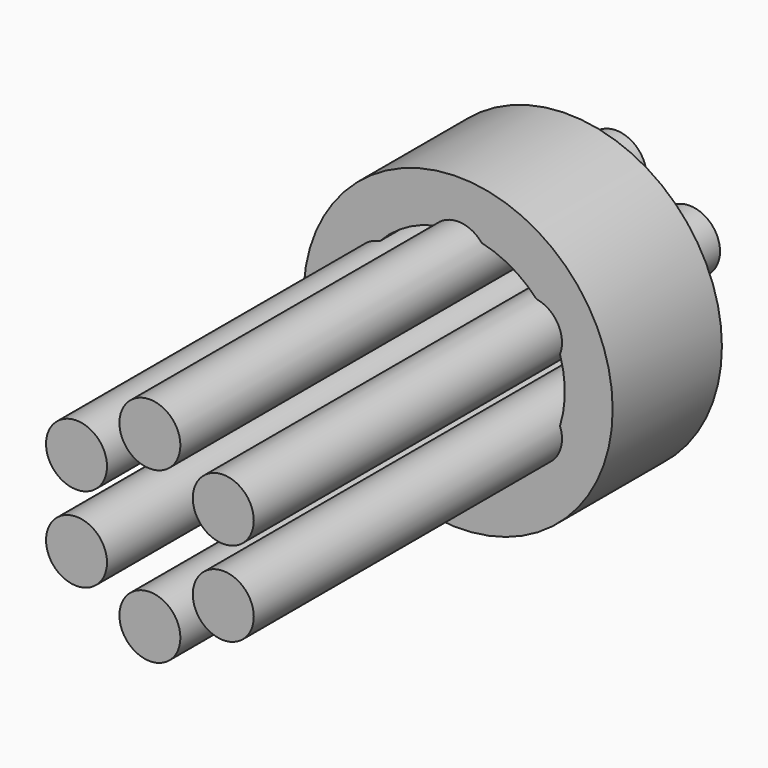
from build123d import *

# Parameters (mm, degrees)
F0_R     = 2.5
F1_DEPTH = 47.8
F3_R     = 12.675
F3_R_2   = 8.75
F4_DEPTH = 11.2


with BuildPart() as f1:
    # F0 (on Front) → F1 (new body)
    with BuildSketch(Plane.XZ):
        with Locations((0, 6.95)):
            Circle(F0_R)
        with Locations((-6.018877, 3.475)):
            Circle(F0_R)
        with Locations((-6.018877, -3.475)):
            Circle(F0_R)
        with Locations((0, -6.95)):
            Circle(F0_R)
        with Locations((6.018877, -3.475)):
            Circle(F0_R)
        with Locations((6.018877, 3.475)):
            Circle(F0_R)
    extrude(amount=F1_DEPTH)

    # F3 (on offset) → F4 (join)
    with BuildSketch(Plane.XZ.offset(5)):
        Circle(F3_R)
        Circle(F3_R_2, mode=Mode.SUBTRACT)
    extrude(amount=F4_DEPTH)


solid = f1.part
